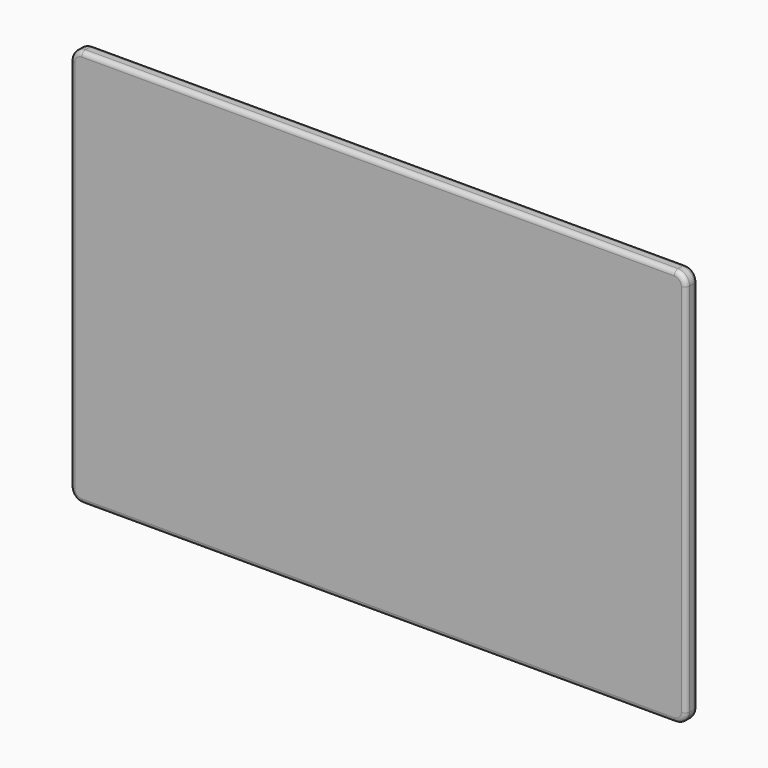
from build123d import *

# Parameters (mm, degrees)
F0_W     = 266
F0_H     = 172
F1_DEPTH = 3.2
F2_R     = 5
F3_R     = 2
F4_R     = 2.3534685549
F5_DEPTH = 0.1


with BuildPart() as f1:
    # F0 (on Front) → F1 (new body, symmetric)
    with BuildSketch(Plane.XZ):
        with Locations((7.3433928192, 9.1417450992)):
            Rectangle(F0_W, F0_H)
    extrude(amount=F1_DEPTH, both=True)

    # F2
    f2_edges = [f1.edges().sort_by_distance(p)[0] for p in [
        (-125.656607, 0, 95.141745),
        (140.343393, 0, 95.141745),
        (140.343393, 0, -76.858255),
        (-125.656607, 0, -76.858255),
    ]]
    fillet(f2_edges, radius=F2_R)

    # F3
    f3_edges = [f1.edges().sort_by_distance(p)[0] for p in [
        (7.343393, 3.2, -76.858255),
        (7.343393, -3.2, -76.858255),
        (-125.656607, 3.2, 9.141745),
        (-125.656607, -3.2, 9.141745),
        (7.343393, 3.2, 95.141745),
        (140.343393, 3.2, 9.141745),
        (140.343393, -3.2, 9.141745),
        (7.343393, -3.2, 95.141745),
        (-124.192141, -3.2, -75.393789),
        (-124.192141, 3.2, -75.393789),
        (-124.192141, -3.2, 93.677279),
        (-124.192141, 3.2, 93.677279),
        (138.878927, -3.2, 93.677279),
        (138.878927, 3.2, -75.393789),
        (138.878927, -3.2, -75.393789),
        (138.878927, 3.2, 93.677279),
    ]]
    fillet(f3_edges, radius=F3_R)

    # F4 (on face) → F5 (join)
    with BuildSketch(Plane(origin=(0, 3.2, 0), x_dir=(-1, 0, 0), z_dir=(0, 1, 0))):
        with Locations((117.853499949, 87.8090560436)):
            Circle(F4_R)
    extrude(amount=F5_DEPTH)


solid = f1.part
